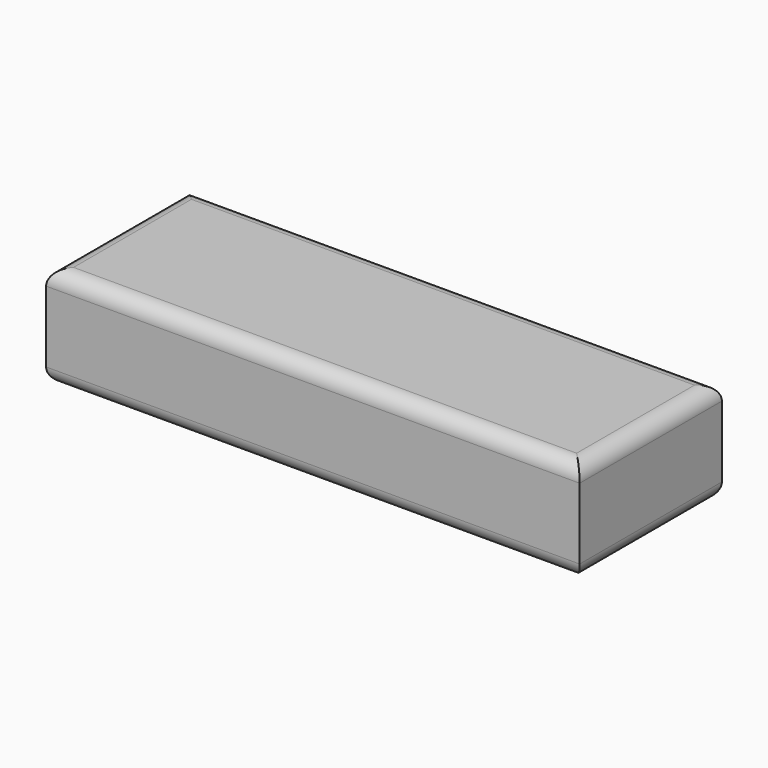
from build123d import *

# Parameters (mm, degrees)
SKETCH_W  = 105
SKETCH_H  = 35
PAD_DEPTH = 20
FILLET_R  = 3


with BuildPart() as part:
    # Sketch → Pad (new body)
    with BuildSketch(Plane.XY):
        with Locations((52.5, 17.5)):
            Rectangle(SKETCH_W, SKETCH_H)
    extrude(amount=PAD_DEPTH)

    # Fillet
    fillet_edges = [part.edges().sort_by_distance(p)[0] for p in [
        (0, 17.5, 20),
        (52.5, 35, 20),
        (52.5, 0, 20),
        (105, 17.5, 20),
        (0, 17.5, 0),
        (52.5, 0, 0),
        (52.5, 35, 0),
        (105, 17.5, 0),
    ]]
    fillet(fillet_edges, radius=FILLET_R)


solid = part.part
